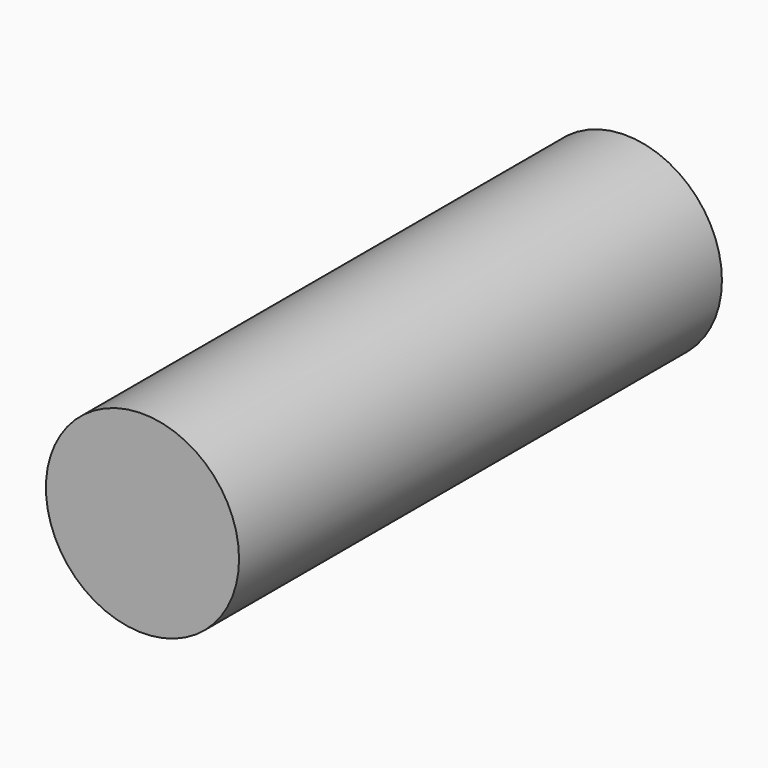
from build123d import *

# Parameters (mm, degrees)
F0_R     = 4
F1_DEPTH = 25
F2_DEPTH = 10


with BuildPart() as f1:
    # F0 (on Front) → F1 (new body)
    with BuildSketch(Plane.XZ):
        Circle(F0_R)
        with BuildLine():
            ThreePointArc((-2.2360679775, -2), (-1.0704662693, 2.8025170769), (3, 0))
            ThreePointArc((3, 0), (2.8025170769, -1.0704662693), (2.2360679775, -2))
            ThreePointArc((2.2360679775, -2), (1.2247448714, -2.7386127875), (0, -3))
            ThreePointArc((0, -3), (-1.2247448714, -2.7386127875), (-2.2360679775, -2))
        make_face(mode=Mode.SUBTRACT)
        with BuildLine():
            ThreePointArc((2.2360679775, -2), (2.8025170769, -1.0704662693), (3, 0))
            ThreePointArc((3, 0), (-1.0704662693, 2.8025170769), (-2.2360679775, -2))
            Line((-2.2360679775, -2), (0, -2))
            Line((0, -2), (2.2360679775, -2))
        make_face()
        with BuildLine():
            ThreePointArc((0, -3), (1.2247448714, -2.7386127875), (2.2360679775, -2))
            Line((2.2360679775, -2), (0, -2))
            Line((0, -2), (0, -3))
        make_face()
        with BuildLine():
            Line((0, -2), (-2.2360679775, -2))
            ThreePointArc((-2.2360679775, -2), (-1.2247448714, -2.7386127875), (0, -3))
            Line((0, -3), (0, -2))
        make_face()
    extrude(amount=F1_DEPTH)

    # F0 (on Front) → F2 (cut)
    with BuildSketch(Plane.XZ):
        with BuildLine():
            ThreePointArc((2.2360679775, -2), (2.8025170769, -1.0704662693), (3, 0))
            ThreePointArc((3, 0), (-1.0704662693, 2.8025170769), (-2.2360679775, -2))
            Line((-2.2360679775, -2), (0, -2))
            Line((0, -2), (2.2360679775, -2))
        make_face()
    extrude(amount=F2_DEPTH, mode=Mode.SUBTRACT)


solid = f1.part
